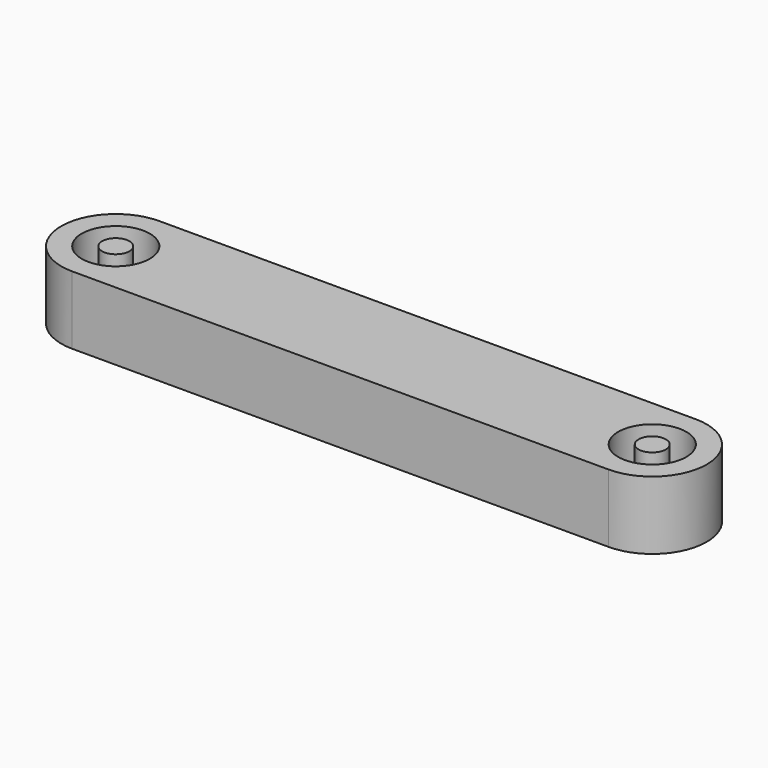
from build123d import *

# Parameters (mm, degrees)
F0_R     = 1.0033
F1_DEPTH = 2.5019
F0_R_2   = 2.5019


with BuildPart() as f1:
    # F0 (on Top) → F1 (new body, symmetric)
    with BuildSketch(Plane.XY):
        Circle(F0_R)
    extrude(amount=F1_DEPTH, both=True)


with BuildPart() as f1b:
    # F0 (on Top) → F1, piece 2 (new body, symmetric)
    with BuildSketch(Plane.XY):
        with Locations((39.3954, 0)):
            Circle(F0_R)
    extrude(amount=F1_DEPTH, both=True)


with BuildPart() as f1c:
    # F0 (on Top) → F1, piece 3 (new body, symmetric)
    with BuildSketch(Plane.XY):
        with BuildLine():
            Line((39.3954, 4.0005), (0, 4.0005))
            ThreePointArc((0, 4.0005), (-4.0005, 0), (0, -4.0005))
            Line((0, -4.0005), (39.3954, -4.0005))
            ThreePointArc((39.3954, -4.0005), (43.3959, 0), (39.3954, 4.0005))
        make_face()
        Circle(F0_R_2, mode=Mode.SUBTRACT)
        with Locations((39.3954, 0)):
            Circle(F0_R_2, mode=Mode.SUBTRACT)
    extrude(amount=F1_DEPTH, both=True)


solid = Compound([f1.part, f1b.part, f1c.part])
